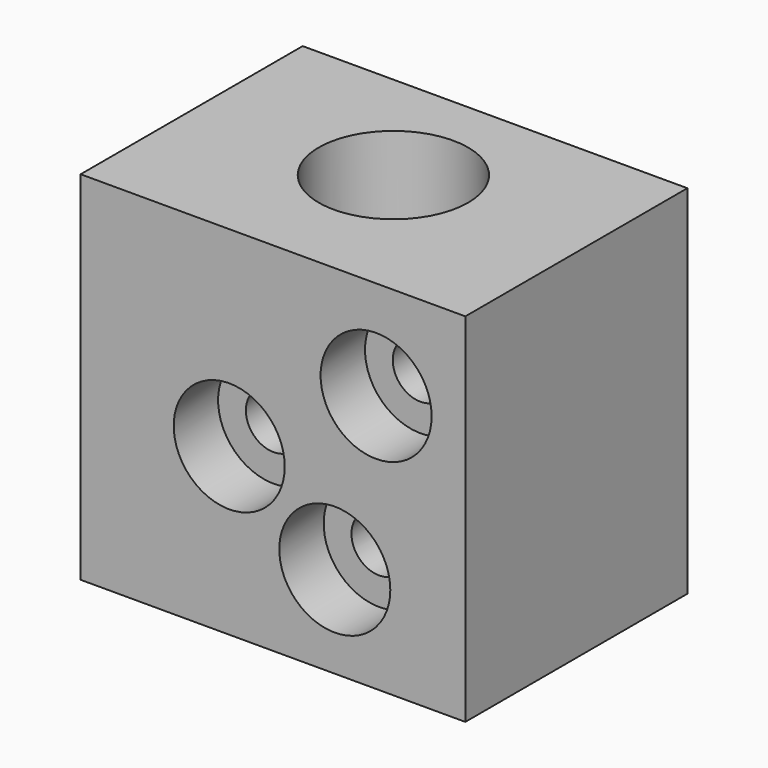
from build123d import *

# Parameters (mm, degrees)
F0_W           = 34.65341
F0_H           = 32.161761
F1_DEPTH       = 25
F2_R           = 6.731934
F3_DEPTH       = 25
F5_D           = 5
F5_CBORE_D     = 10
F5_CBORE_DEPTH = 5


with BuildPart() as f1:
    # F0 (on Front) → F1 (new body)
    with BuildSketch(Plane.XZ):
        with Locations((17.326705, 16.08088)):
            Rectangle(F0_W, F0_H)
    extrude(amount=F1_DEPTH)

    # F2 (on face) → F3 (cut)
    with BuildSketch(Plane.XY.offset(32.161761)):
        with Locations((17.258551, -11.357421)):
            Circle(F2_R)
    extrude(amount=-F3_DEPTH, mode=Mode.SUBTRACT)

    # F5 (through all)
    with Locations(Plane.XZ.offset(25)):
        with Locations((13.383781, 14.940267), (26.61572, 23.240186), (22.894813, 8.254618)):
            CounterBoreHole(F5_D / 2, F5_CBORE_D / 2, F5_CBORE_DEPTH)


solid = f1.part
